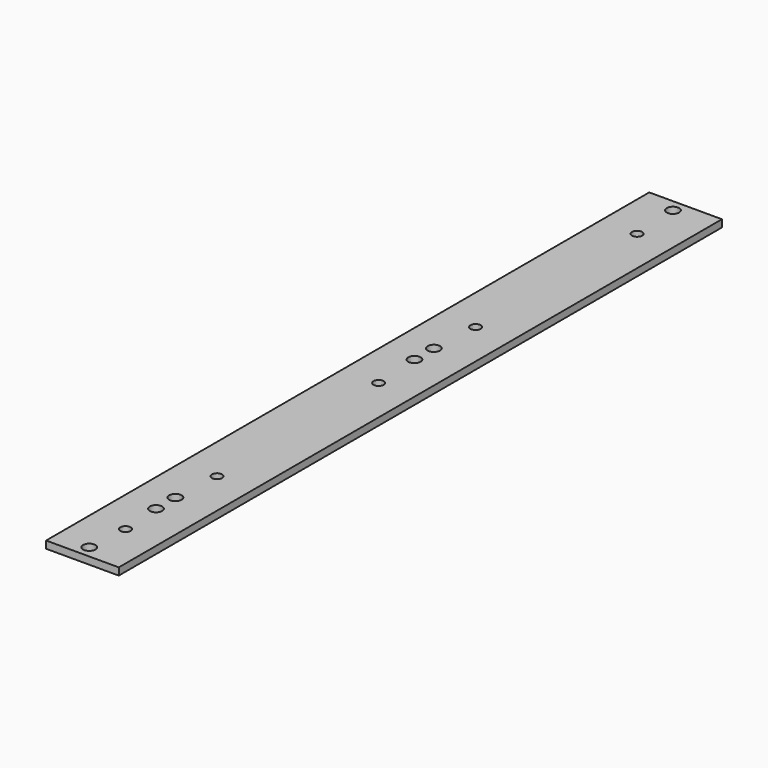
from build123d import *

# Parameters (mm, degrees)
SKETCH_W      = 30
SKETCH_H      = 311.15
PAD_DEPTH     = 3
SKETCH001_R   = 2.55
SKETCH001_R_2 = 2.1
POCKET_DEPTH  = 3.001


with BuildPart() as part:
    # Sketch → Pad (new body)
    with BuildSketch(Plane.XY):
        with Locations((-15, 155.575)):
            Rectangle(SKETCH_W, SKETCH_H)
    extrude(amount=PAD_DEPTH)

    # Sketch001 (on Face6 of Pad) → Pocket (cut, through all)
    with BuildSketch(Plane.XY.offset(3)):
        with Locations((-16.2, 5)):
            Circle(SKETCH001_R)
        with Locations((-16.2, 39.45)):
            Circle(SKETCH001_R)
        with Locations((-16.2, 49.45)):
            Circle(SKETCH001_R)
        with Locations((-16.2, 172.8)):
            Circle(SKETCH001_R)
        with Locations((-16.2, 182.8)):
            Circle(SKETCH001_R)
        with Locations((-16.2, 306.15)):
            Circle(SKETCH001_R)
        with Locations((-15, 22.225)):
            Circle(SKETCH001_R_2)
        with Locations((-15, 69.45)):
            Circle(SKETCH001_R_2)
        with Locations((-15, 152.8)):
            Circle(SKETCH001_R_2)
        with Locations((-15, 202.8)):
            Circle(SKETCH001_R_2)
        with Locations((-15, 286.15)):
            Circle(SKETCH001_R_2)
    extrude(amount=-POCKET_DEPTH, mode=Mode.SUBTRACT)


solid = part.part
